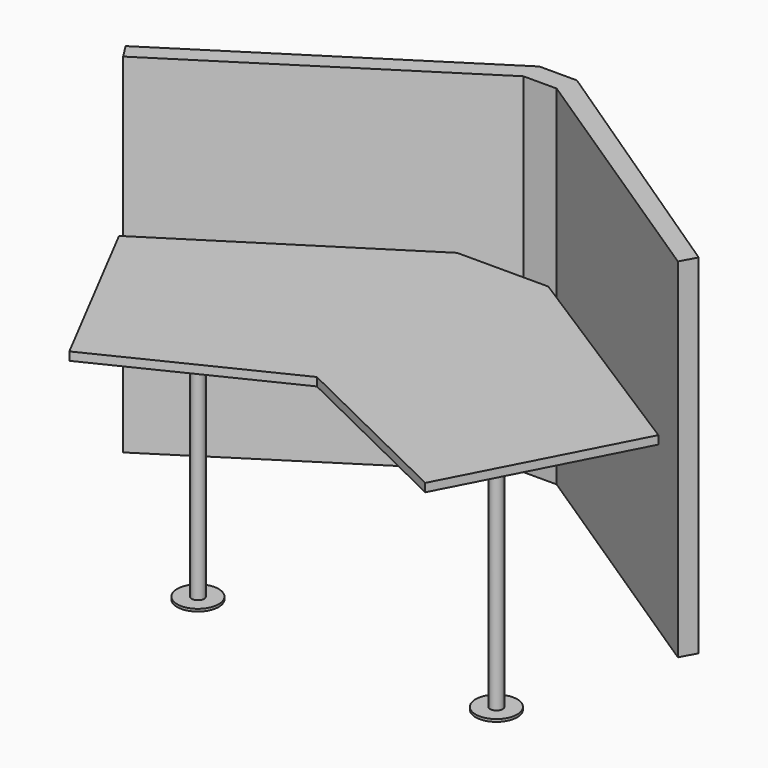
from build123d import *

# Parameters (mm, degrees)
F1_DEPTH = 25.4
F2_R     = 19.05
F3_DEPTH = 762
F4_R     = 63.5
F5_DEPTH = 7.62
F7_DEPTH = 609.6
F8_DEPTH = 457.2


with BuildPart() as f1:
    # F0 (on Top) → F1 (new body)
    with BuildSketch(Plane.XY):
        Polygon((139.7, 0), (-139.7, 0), (-825.5, -436.259327), (-544.732308, -977.352353), (0, -711.2), (544.732308, -977.352353), (825.5, -436.259327), align=None)
    extrude(amount=-F1_DEPTH)

    # F2 (on face) → F3 (join)
    with BuildSketch(Plane(origin=(0, 0, -25.4), x_dir=(1, 0, 0), z_dir=(0, 0, -1))):
        with Locations((-456.874231, 595.18941)):
            Circle(F2_R)
        with Locations((456.874231, 595.18941)):
            Circle(F2_R)
    extrude(amount=F3_DEPTH)

    # F4 (on face) → F5 (join)
    with BuildSketch(Plane(origin=(0, 0, -787.4), x_dir=(1, 0, 0), z_dir=(0, 0, -1))):
        with Locations((-456.874231, 595.18941)):
            Circle(F4_R)
        with Locations((456.874231, 595.18941)):
            Circle(F4_R)
    extrude(amount=F5_DEPTH)


with BuildPart() as f7:
    # F6 (on Top) → F7 (new body)
    with BuildSketch(Plane.XY):
        Polygon((-878.347972, -345.03215), (-848.988028, -390.993405), (-38.1, 127), (63.5, 127), (848.988028, -390.993405), (874.642551, -343.524218), (74.927829, 190.321905), (-40.282875, 190.321905), align=None)
    extrude(amount=-F7_DEPTH)

    # F6 (on Top) → F8 (join)
    with BuildSketch(Plane.XY):
        Polygon((-878.347972, -345.03215), (-848.988028, -390.993405), (-38.1, 127), (63.5, 127), (848.988028, -390.993405), (874.642551, -343.524218), (74.927829, 190.321905), (-40.282875, 190.321905), align=None)
    extrude(amount=F8_DEPTH)


solid = Compound([f1.part, f7.part])
